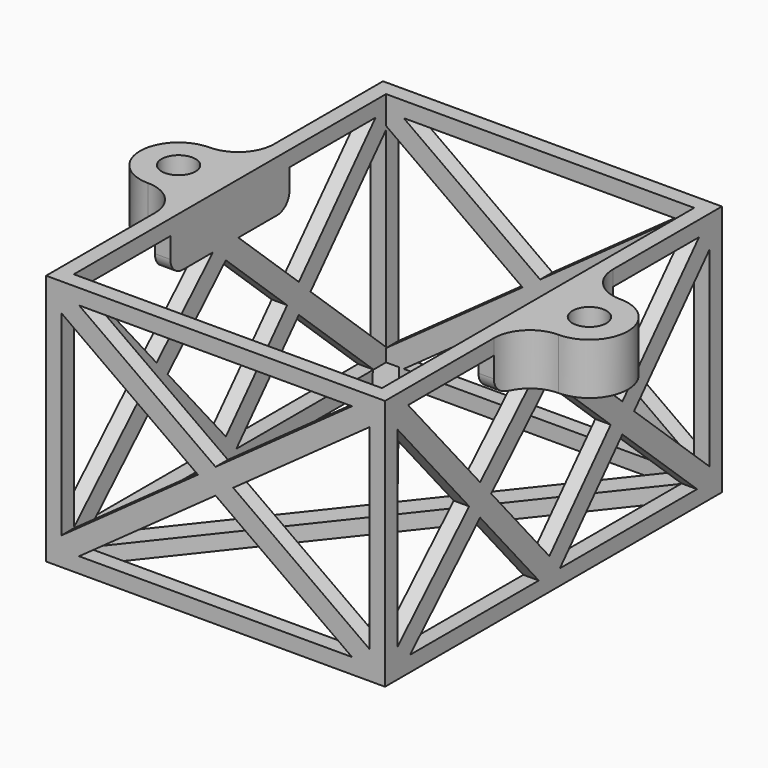
from build123d import *

# Parameters (mm, degrees)
SKETCH072_R          = 1.65
SKETCH072_W          = 30
SKETCH072_H          = 38
PAD031_DEPTH         = 5
SKETCH073_W          = 33
SKETCH073_H          = 41
SKETCH073_W_2        = 30
SKETCH073_H_2        = 38
PAD032_DEPTH         = 18
SKETCH108_W          = 33
SKETCH108_H          = 41
PAD049_DEPTH         = 1.5
POCKET055_DEPTH      = 41.001
POCKET056_DEPTH      = 50
POCKET056_DEPTH_BACK = 5


with BuildPart() as part:
    # Sketch072 → Pad031 (new body)
    with BuildSketch(Plane.XY):
        with BuildLine():
            Line((16.5, 59.5), (-16.5, 59.5))
            Line((-16.5, 59.5), (-16.5, 46.25))
            ThreePointArc((-20, 42.75), (-17.525126, 43.775126), (-16.5, 46.25))
            ThreePointArc((-20, 42.75), (-23.75, 39), (-20, 35.25))
            ThreePointArc((-16.5, 31.75), (-17.525126, 34.224874), (-20, 35.25))
            Line((-16.5, 18.5), (-16.5, 31.75))
            Line((16.5, 18.5), (-16.5, 18.5))
            Line((16.5, 18.5), (16.5, 31.75))
            ThreePointArc((20, 35.25), (17.525126, 34.224874), (16.5, 31.75))
            ThreePointArc((20, 35.25), (23.75, 39), (20, 42.75))
            ThreePointArc((16.5, 46.25), (17.525126, 43.775126), (20, 42.75))
            Line((16.5, 59.5), (16.5, 46.25))
        make_face()
        with Locations((20, 39)):
            Circle(SKETCH072_R, mode=Mode.SUBTRACT)
        with Locations((-20, 39)):
            Circle(SKETCH072_R, mode=Mode.SUBTRACT)
        with Locations((0, 39)):
            Rectangle(SKETCH072_W, SKETCH072_H, mode=Mode.SUBTRACT)
    extrude(amount=-PAD031_DEPTH)

    # Sketch073 (on Face20 of Pad031) → Pad032 (join)
    with BuildSketch(Plane(origin=(0, 0, -5), x_dir=(1, 0, 0), z_dir=(0, 0, -1))):
        with Locations((0, -39)):
            Rectangle(SKETCH073_W, SKETCH073_H)
        with Locations((0, -39)):
            Rectangle(SKETCH073_W_2, SKETCH073_H_2, mode=Mode.SUBTRACT)
    extrude(amount=PAD032_DEPTH)

    # Sketch108 (on Face23 of Pad032) → Pad049 (join)
    with BuildSketch(Plane(origin=(0, 0, -23), x_dir=(1, 0, 0), z_dir=(0, 0, -1))):
        with Locations((0, -39)):
            Rectangle(SKETCH108_W, SKETCH108_H)
        Polygon((0, -40.613829), (-13.725924, -58), (13.725924, -58), align=None, mode=Mode.SUBTRACT)
        Polygon((15, -56.386171), (1.274076, -39), (15, -21.613829), align=None, mode=Mode.SUBTRACT)
        Polygon((13.725924, -20), (-13.725924, -20), (0, -37.386171), align=None, mode=Mode.SUBTRACT)
        Polygon((-1.274076, -39), (-15, -21.613829), (-15, -56.386171), align=None, mode=Mode.SUBTRACT)
    extrude(amount=PAD049_DEPTH)

    # Sketch109 (on Face5 of Pad049) → Pocket055 (cut, through all)
    with BuildSketch(Plane(origin=(0, 59.5, 0), x_dir=(-1, 0, 0), z_dir=(0, 1, 0))):
        Polygon((-15, -2.730289), (-15, -21.769711), (-1.716682, -12.25), align=None)
        Polygon((1.716682, -12.25), (15, -21.769711), (15, -2.730289), align=None)
        Polygon((-13.283318, -23), (13.283318, -23), (0, -13.480289), align=None)
        Polygon((-13.283318, -1.5), (13.283318, -1.5), (0, -11.019711), align=None)
    extrude(amount=-POCKET055_DEPTH, mode=Mode.SUBTRACT)

    # Sketch110 (on Face28 of Pocket055) → Pocket056 (cut, two sides)
    with BuildSketch(Plane(origin=(-16.5, 0, 0), x_dir=(0, -1, 0), z_dir=(-1, 0, 0))) as pocket056_sk:
        Polygon((-56.473161, -23), (-47.386076, -14.611922), (-39.778284, -23), align=None)
        Polygon((-58, -21.687574), (-58, -3.06762), (-48.807871, -13.202532), align=None)
        with BuildLine():
            Line((-56.721716, -1.5), (-47.386076, -11.793142))
            Line((-47.386076, -11.793142), (-40.026839, -5))
            Line((-40.026839, -5), (-44.75, -5))
            ThreePointArc((-46.25, -3.5), (-45.81066, -4.56066), (-44.75, -5))
            Line((-46.25, -1.5), (-46.25, -3.5))
            Line((-46.25, -1.5), (-56.721716, -1.5))
        make_face()
        with BuildLine():
            Line((-36.934247, -5), (-30.06962, -11.679097))
            Line((-30.06962, -11.679097), (-21.310863, -1.5))
            Line((-21.310863, -1.5), (-31.75, -1.5))
            Line((-31.75, -1.5), (-31.75, -3.5))
            ThreePointArc((-33.25, -5), (-32.18934, -4.56066), (-31.75, -3.5))
            Line((-36.934247, -5), (-33.25, -5))
        make_face()
        Polygon((-28.741998, -13.202532), (-20, -3.042912), (-20, -21.70826), align=None)
        Polygon((-37.210398, -23), (-30.06962, -14.701258), (-21.540358, -23), align=None)
        Polygon((-38.5, -21.43238), (-31.418503, -13.202532), (-38.5, -6.312426), (-45.964281, -13.202532), align=None)
    extrude(amount=-POCKET056_DEPTH, mode=Mode.SUBTRACT)
    extrude(pocket056_sk.sketch, amount=POCKET056_DEPTH_BACK, mode=Mode.SUBTRACT)


with BuildPart() as part_1:
    # Body023 placement: moved
    add(part.part.moved(Location((0, 0, 32))))


solid = part_1.part
